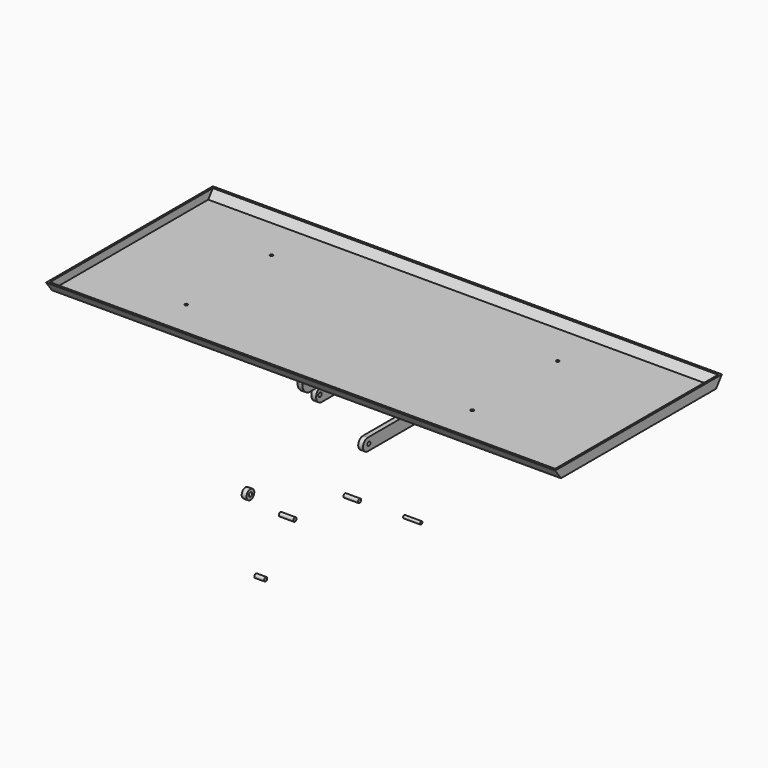
from build123d import *

# Parameters (mm, degrees)
F0_R           = 4
F1_DEPTH       = 5
F2_R           = 4
F3_DEPTH       = 5
F4_R           = 10
F4_R_2         = 4
F5_DEPTH       = 5
F6_R           = 4
F7_DEPTH       = 10
F8_R           = 4
F9_DEPTH       = 15
F11_DEPTH      = 550
F11_DEPTH_BACK = 500
F12_T          = -4
F14_D          = 6
F16_D          = 6
F17_R          = 3
F18_DEPTH      = 35
F19_R          = 4
F20_DEPTH      = 30


with BuildPart() as f1:
    # F0 (on Right) → F1 (new body, symmetric)
    with BuildSketch(Plane.YZ):
        with BuildLine():
            ThreePointArc((150, -185), (145.6066017178, -174.3933982822), (135, -170))
            Line((135, -170), (-135, -170))
            ThreePointArc((-135, -170), (-145.6066017178, -174.3933982822), (-150, -185))
            ThreePointArc((-150, -185), (-145.6066017178, -195.6066017178), (-135, -200))
            Line((-135, -200), (135, -200))
            ThreePointArc((135, -200), (145.6066017178, -195.6066017178), (150, -185))
        make_face()
        with Locations((-140, -185)):
            Circle(F0_R, mode=Mode.SUBTRACT)
        with BuildLine():
            ThreePointArc((110, -181), (114, -185), (110, -189))
            Line((110, -189), (50, -189))
            ThreePointArc((50, -189), (46, -185), (50, -181))
            Line((50, -181), (110, -181))
        make_face(mode=Mode.SUBTRACT)
        with Locations((140, -185)):
            Circle(F0_R, mode=Mode.SUBTRACT)
    extrude(amount=F1_DEPTH, both=True)


with BuildPart() as f1b:
    # F0 (on Right) → F1, piece 2 (new body, symmetric)
    with BuildSketch(Plane.YZ):
        with BuildLine():
            Line((184.5940625668, -149), (184.5940625668, -139))
            Line((184.5940625668, -139), (-185.4059374332, -139))
            Line((-185.4059374332, -139), (-185.4059374332, -149))
            ThreePointArc((-185.4059374332, -149), (-179.548073057, -163.1421356237), (-165.4059374332, -169))
            Line((-165.4059374332, -169), (164.5940625668, -169))
            ThreePointArc((164.5940625668, -169), (178.7361981905, -163.1421356237), (184.5940625668, -149))
        make_face()
        with Locations((-140, -154)):
            Circle(F0_R, mode=Mode.SUBTRACT)
        with BuildLine():
            Line((110, -158), (50, -158))
            ThreePointArc((50, -158), (46, -154), (50, -150))
            Line((50, -150), (110, -150))
            ThreePointArc((110, -150), (114, -154), (110, -158))
        make_face(mode=Mode.SUBTRACT)
    extrude(amount=F1_DEPTH, both=True)

    # F16 (through all)
    with Locations(Plane.XY.offset(-139)):
        with Locations((0, -110), (0, 110)):
            Hole(F16_D / 2)


with BuildPart() as f3:
    # F2 (on Right) → F3 (new body, symmetric)
    with BuildSketch(Plane.YZ):
        with BuildLine():
            ThreePointArc((251.0131775799, -325.2506256104), (247.3520123447, -316.4117908455), (238.5131775799, -312.7506256104))
            Line((238.5131775799, -312.7506256104), (-16.4868224201, -312.7506256104))
            ThreePointArc((-16.4868224201, -312.7506256104), (-25.325657185, -316.4117908455), (-28.9868224201, -325.2506256104))
            ThreePointArc((-28.9868224201, -325.2506256104), (-25.325657185, -334.0894603752), (-16.4868224201, -337.7506256104))
            Line((-16.4868224201, -337.7506256104), (238.5131775799, -337.7506256104))
            ThreePointArc((238.5131775799, -337.7506256104), (247.3520123447, -334.0894603752), (251.0131775799, -325.2506256104))
        make_face()
        with Locations((-13.9868224201, -325.2506256104)):
            Circle(F2_R, mode=Mode.SUBTRACT)
        with Locations((111.0131775799, -325.2506256104)):
            Circle(F2_R, mode=Mode.SUBTRACT)
        with Locations((236.0131775799, -325.2506256104)):
            Circle(F2_R, mode=Mode.SUBTRACT)
    extrude(amount=F3_DEPTH, both=True)


with BuildPart() as f5:
    # F4 (on face) → F5 (new body, symmetric)
    with BuildSketch(Plane.YZ):
        with Locations((-319.4644451141, -293.2232916355)):
            Circle(F4_R)
        with Locations((-319.4644451141, -293.2232916355)):
            Circle(F4_R_2, mode=Mode.SUBTRACT)
    extrude(amount=F5_DEPTH, both=True)


with BuildPart() as f7:
    # F6 (on face) → F7 (new body, symmetric)
    with BuildSketch(Plane.YZ):
        with Locations((-286.2927317619, -459.0180516243)):
            Circle(F6_R)
    extrude(amount=F7_DEPTH, both=True)


with BuildPart() as f9:
    # F8 (on face) → F9 (new body, symmetric)
    with BuildSketch(Plane.YZ):
        with Locations((-217.2582745552, -376.9488632679)):
            Circle(F8_R)
    extrude(amount=F9_DEPTH, both=True)


with BuildPart() as f11:
    # F10 (on face) → F11 (new body, two sides)
    with BuildSketch(Plane.YZ) as f11_sk:
        Polygon((-200, -135), (200, -135), (215, -115), (-215, -115), align=None)
    extrude(amount=F11_DEPTH)
    extrude(f11_sk.sketch, amount=-F11_DEPTH_BACK)

    # F12
    f12_openings = [f11.faces().sort_by_distance(p)[0] for p in [
        (25, 0, -115),
    ]]
    offset(amount=F12_T, openings=f12_openings)

    # F14 (through all)
    with Locations(Plane.XY.offset(-131)):
        with Locations((-295, 110), (-295, -110), (295, 110), (295, -110)):
            Hole(F14_D / 2)


with BuildPart() as f18:
    # F17 (on face) → F18 (new body)
    with BuildSketch(Plane.YZ):
        with Locations((83.466231823, -498.8159835339)):
            Circle(F17_R)
    extrude(amount=F18_DEPTH)


with BuildPart() as f20:
    # F19 (on face) → F20 (new body)
    with BuildSketch(Plane.YZ):
        with Locations((-69.1537857056, -398.3429670334)):
            Circle(F19_R)
    extrude(amount=F20_DEPTH)


solid = Compound([f1.part, f1b.part, f3.part, f5.part, f7.part, f9.part, f11.part, f18.part, f20.part])
